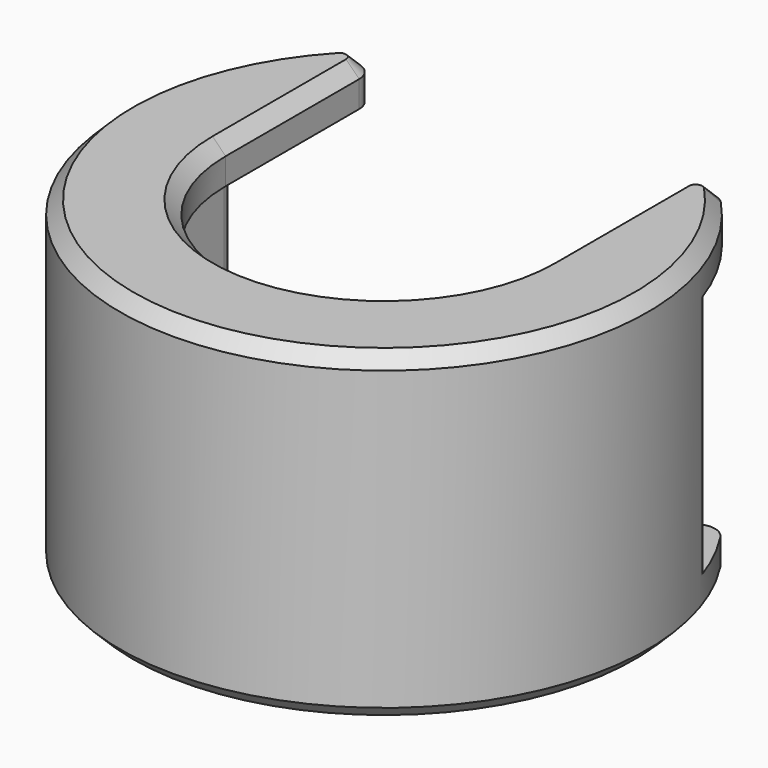
from build123d import *

# Parameters (mm, degrees)
POCKET003_DEPTH = 20.001
FILLET_R        = 1.5
FILLET001_R     = 1
CHAMFER001_SIZE = 1


with BuildPart() as part:
    # Sketch013 → Revolution003 (revolve)
    with BuildSketch(Plane.XZ):
        Polygon((-76.645, -50.35), (-76.645, -47.35), (-84.645, -47.35), (-84.645, -71.85), (-78.645, -71.85), (-78.645, -68.85), (-81.645, -68.85), (-81.645, -50.35), align=None)
    revolve(axis=Axis((-64.645, 0, -50.35), (0, 0, 1)))

    # Sketch014 → Pocket003 (cut, through all)
    with BuildSketch(Plane.XZ):
        Polygon((-76.645, -47.35), (-52.645, -47.35), (-52.645, -50.35), (-47.645, -50.35), (-47.645, -68.85), (-50.645, -68.85), (-50.645, -71.85), (-78.645, -71.85), (-78.645, -68.85), (-81.645, -68.85), (-81.645, -50.35), (-76.645, -50.35), align=None)
    extrude(amount=-POCKET003_DEPTH, mode=Mode.SUBTRACT)

    # Fillet
    fillet_edges = [part.edges().sort_by_distance(p)[0] for p in [
        (-52.645, 16, -48.85),
        (-76.645, 16, -48.85),
        (-78.645, 14.282857, -70.35),
        (-50.645, 14.282857, -70.35),
    ]]
    fillet(fillet_edges, radius=FILLET_R)

    # Fillet001
    fillet001_edges = [part.edges().sort_by_distance(p)[0] for p in [
        (-47.645, 10.535654, -59.6),
        (-81.645, 10.535654, -59.6),
    ]]
    fillet(fillet001_edges, radius=FILLET001_R)

    # Chamfer001
    chamfer001_edges = [part.edges().sort_by_distance(p)[0] for p in [
        (-83.244622, 7.352146, -47.35),
        (-83.817052, 5.694948, -71.85),
    ]]
    chamfer(chamfer001_edges, length=CHAMFER001_SIZE)


solid = part.part
